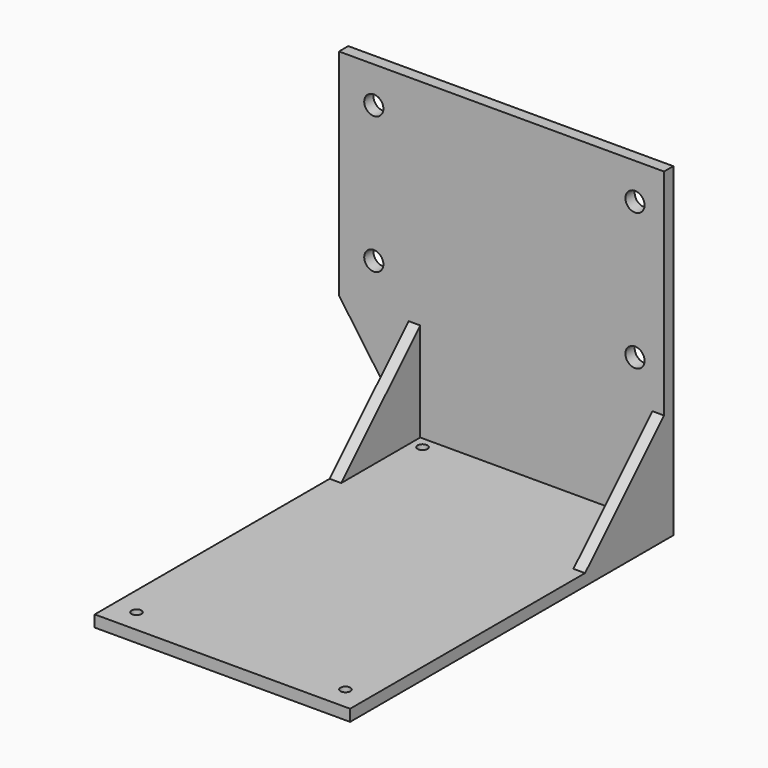
from build123d import *

# Parameters (mm, degrees)
F1_DEPTH  = 280
F2_W      = 60
F2_H      = 338
F3_DEPTH  = 10.001
F5_DEPTH  = 10.001
F6_R      = 8.25
F7_DEPTH  = 10.001
F8_R      = 4.25
F9_DEPTH  = 10.001
F10_W     = 10
F10_H     = 85
F11_DEPTH = 85
F14_DEPTH = 220.001
F15_DEPTH = 280.001


with BuildPart() as f1:
    # F0 (on Right) → F1 (new body)
    with BuildSketch(Plane.YZ):
        Polygon((10, -145), (10, 135), (0, 135), (0, -135), (-338, -135), (-338, -145), align=None)
    extrude(amount=F1_DEPTH)

    # F2 (on face) → F3 (cut, through all)
    with BuildSketch(Plane.XY.offset(-135)):
        with Locations((30, -169)):
            Rectangle(F2_W, F2_H)
    extrude(amount=-F3_DEPTH, mode=Mode.SUBTRACT)

    # F4 (on face) → F5 (cut, through all)
    with BuildSketch(Plane.XZ):
        Polygon((60, -135), (0, -50), (0, -145), (60, -145), align=None)
    extrude(amount=-F5_DEPTH, mode=Mode.SUBTRACT)

    # F6 (on face) → F7 (cut, through all)
    with BuildSketch(Plane.XZ):
        with Locations((30, 104)):
            Circle(F6_R)
        with Locations((255, 104)):
            Circle(F6_R)
        with Locations((255, -14)):
            Circle(F6_R)
        with Locations((30, -14)):
            Circle(F6_R)
    extrude(amount=-F7_DEPTH, mode=Mode.SUBTRACT)

    # F8 (on face) → F9 (cut, through all)
    with BuildSketch(Plane.XY.offset(-135)):
        with Locations((80, -10)):
            Circle(F8_R)
        with Locations((260, -10)):
            Circle(F8_R)
        with Locations((80, -318)):
            Circle(F8_R)
        with Locations((260, -318)):
            Circle(F8_R)
    extrude(amount=-F9_DEPTH, mode=Mode.SUBTRACT)

    # F10 (on face) → F11 (join)
    with BuildSketch(Plane.XZ):
        with Locations((65, -92.5)):
            Rectangle(F10_W, F10_H)
        with Locations((275, -92.5)):
            Rectangle(F10_W, F10_H)
    extrude(amount=F11_DEPTH)

    # F13 (on face) → F14 (cut, through all)
    with BuildSketch(Plane(origin=(60, 0, 0), x_dir=(0, -1, 0), z_dir=(-1, 0, 0))):
        Polygon((85, -50), (0, -50), (85, -135), align=None)
    extrude(amount=-F14_DEPTH, mode=Mode.SUBTRACT)

    # F12 (on face) → F15 (cut, through all)
    with BuildSketch(Plane.YZ.offset(280)):
        Polygon((-85, -135), (0, -50), (-85, -50), align=None)
    extrude(amount=-F15_DEPTH, mode=Mode.SUBTRACT)


solid = f1.part
